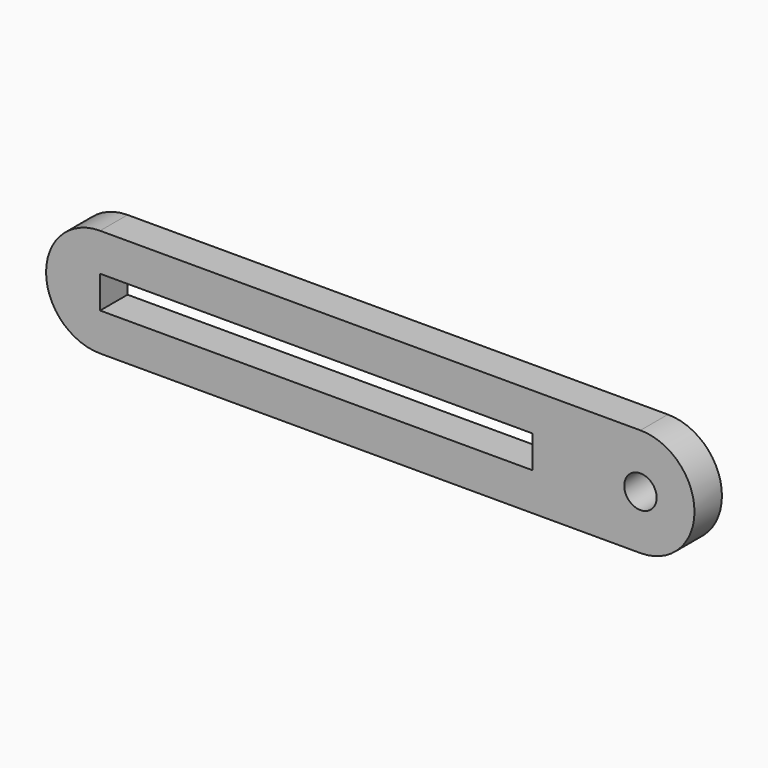
from build123d import *

# Parameters (mm, degrees)
F0_W     = 160
F0_H     = 12
F0_R     = 6
F1_DEPTH = 12.7


with BuildPart() as f1:
    # F0 (on Front) → F1 (new body)
    with BuildSketch(Plane.XZ):
        with BuildLine():
            Line((200, 20), (0, 20))
            ThreePointArc((0, 20), (-20, 0), (0, -20))
            Line((0, -20), (200, -20))
            ThreePointArc((200, -20), (220, 0), (200, 20))
        make_face()
        with Locations((80, 0)):
            Rectangle(F0_W, F0_H, mode=Mode.SUBTRACT)
        with Locations((200, 0)):
            Circle(F0_R, mode=Mode.SUBTRACT)
    extrude(amount=-F1_DEPTH)


solid = f1.part
